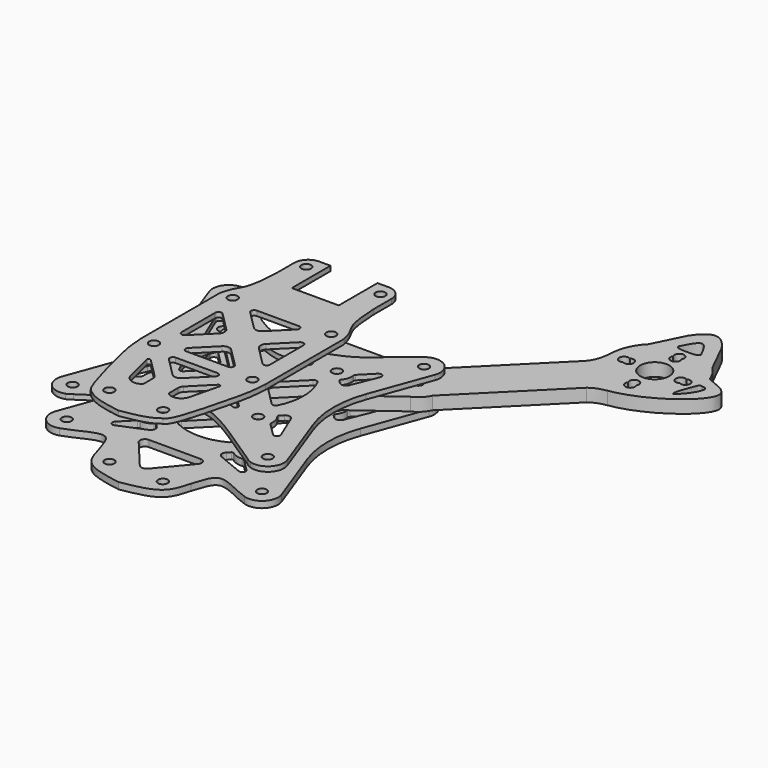
from build123d import *

# Parameters (mm, degrees)
F0_R     = 1.5
F2_DEPTH = 2
F4_START = 3
F1_R     = 1.5
F1_R_2   = 4.5
F4_DEPTH = 4
F7_START = 20
F6_R     = 1.5
F7_DEPTH = 1.5
F8_START = 9
F5_R     = 1.5
F8_DEPTH = 1.5


with BuildPart() as f2:
    # F0 (on Top) → F2 (new body)
    with BuildSketch(Plane.XY):
        with BuildLine():
            add(Edge.make_bspline(
                [(-28.6583371689, 34.989895508), (-15.5486081514, 28.1029236725), (-15.2531134537, 20.3288752095), (-15.0275822655, 35.7869570093)],
                knots=[0, 0, 0, 0, 13.3992828802, 13.3992828802, 13.3992828802, 13.3992828802], degree=3))
            ThreePointArc((-28.6583371689, 34.989895508), (-33.8221162144, 33.7485690999), (-34.9557615497, 28.560086322))
            Line((-34.9557615497, 28.560086322), (-28.2756954338, 10.3133747837))
            ThreePointArc((-28.2756954338, 10.3133747837), (-26.4471685044, -7.1088e-06), (-28.2756201348, -10.3134023513))
            Line((-28.2756201348, -10.3134023513), (-34.9643155344, -28.58409813))
            ThreePointArc((-34.9643155344, -28.58409813), (-33.8042341838, -33.7667341911), (-28.6341939914, -34.9817196608))
            add(Edge.make_bspline(
                [(-28.6341939914, -34.9817196608), (-24.495487875, -33.6930387827), (-16.3607874703, -27.7449542077), (-15.1366587225, -35.7631260416), (-14.33, -37.7577804035)],
                knots=[0, 0, 0, 0, 0.5615113554, 1, 1, 1, 1], degree=3))
            add(Edge.make_bspline(
                [(-14.33, -37.7577804035), (-13.6367446794, -40.3263257967), (-12.088150953, -46.0639424644), (-4.3010614265, -47.3817279873), (0, -48.1095835567)],
                knots=[0, 0, 0, 0, 0.447667654, 1, 1, 1, 1], degree=3))
            add(Edge.make_bspline(
                [(14.33, -37.7577804035), (13.6367446794, -40.3263257967), (12.088150953, -46.0639424644), (4.3010614265, -47.3817279873), (0, -48.1095835567)],
                knots=[0, 0, 0, 0, 0.447667654, 1, 1, 1, 1], degree=3))
            add(Edge.make_bspline(
                [(28.6583371689, -34.9898955092), (24.5097770544, -33.6967999), (16.3601661117, -27.7422129401), (15.1363049951, -35.7630085829), (14.33, -37.7577804035)],
                knots=[0, 0, 0, 0, 0.561784833, 1, 1, 1, 1], degree=3))
            ThreePointArc((28.6583371689, -34.9898955092), (33.8221162144, -33.748569101), (34.9557615497, -28.5600863232))
            Line((34.9557615497, -28.5600863232), (28.2756954338, -10.3133747849))
            ThreePointArc((28.2756954338, -10.3133747849), (26.4471685044, 7.1077e-06), (28.2756201348, 10.3134023502))
            Line((28.2756201348, 10.3134023502), (34.9643155344, 28.5840981288))
            ThreePointArc((34.9643155344, 28.5840981288), (33.8042341838, 33.76673419), (28.6341939914, 34.9817196596))
            add(Edge.make_bspline(
                [(15.0274820378, 35.7867377887), (15.2513136358, 20.3289797995), (15.5248044507, 28.1031931102), (28.6341939914, 34.9817196596)],
                knots=[0.5359060708, 0.5359060708, 0.5359060708, 0.5359060708, 13.9139411757, 13.9139411757, 13.9139411757, 13.9139411757], degree=3))
            Line((15.0274820378, 35.7867377887), (15.0274820378, 39.0599891543))
            ThreePointArc((15.0274820378, 39.0599891543), (13.652463305, 42.1475201967), (10.437709575, 43.1910157204))
            Line((10.437709575, 43.1910157204), (0, 43.1910157204))
            Line((0, 43.1910157204), (-10.4377320476, 43.1910157204))
            ThreePointArc((-10.4377320476, 43.1910157204), (-13.6246402143, 42.125831168), (-15, 39.0599891543))
            Line((-15, 39.0599891543), (-15.0275822655, 35.7869570093))
        make_face()
        with Locations((-30.25, -30.2500000006)):
            Circle(F0_R, mode=Mode.SUBTRACT)
        with Locations((-8.2733329443, -41.1618490551)):
            Circle(F0_R, mode=Mode.SUBTRACT)
        with BuildLine():
            ThreePointArc((-23.8517090122, -20.3161751069), (-25.1141961389, -20.4406647854), (-25.4828700073, -19.2268068843))
            Line((-25.4828700073, -19.2268068843), (-22.1833207357, -11.2506887671))
            ThreePointArc((-22.1833207357, -11.2506887671), (-21.0902108457, -10.3529698728), (-19.736579243, -10.7634207575))
            Line((-19.736579243, -10.7634207575), (-18.8553009264, -11.6446990741))
            ThreePointArc((-18.8553009264, -11.6446990741), (-18.7090370991, -11.9847340093), (-18.8367068235, -12.33217797))
            Line((-18.8367068235, -12.33217797), (-18.8542943682, -12.3517786311))
            ThreePointArc((-18.8542943682, -12.3517786311), (-19.6877326512, -13.9472514003), (-19.8489637612, -15.7400584892))
            Line((-19.8489637612, -15.7400584892), (-19.8303976916, -15.8549305034))
            ThreePointArc((-19.8303976916, -15.8549305034), (-19.8571321349, -16.2052315209), (-20.0404595752, -16.5049256699))
            Line((-20.0404595752, -16.5049256699), (-23.8517090122, -20.3161751069))
        make_face(mode=Mode.SUBTRACT)
        with BuildLine():
            Line((-11.2506887665, -22.1833207364), (-19.2268068836, -25.482870008))
            ThreePointArc((-19.2268068836, -25.482870008), (-20.4406647847, -25.1141961396), (-20.3161751062, -23.8517090128))
            Line((-20.3161751062, -23.8517090128), (-16.5049256693, -20.0404595759))
            ThreePointArc((-16.5049256693, -20.0404595759), (-16.2052315202, -19.8571321356), (-15.8549305027, -19.8303976923))
            Line((-15.8549305027, -19.8303976923), (-15.7400584885, -19.8489637619))
            ThreePointArc((-15.7400584885, -19.8489637619), (-13.9472513996, -19.6877326519), (-12.3517786304, -18.8542943689))
            Line((-12.3517786304, -18.8542943689), (-12.3321779693, -18.8367068242))
            ThreePointArc((-12.3321779693, -18.8367068242), (-11.9847340086, -18.7090370997), (-11.6446990734, -18.8553009271))
            Line((-11.6446990734, -18.8553009271), (-10.7634207569, -19.7365792436))
            ThreePointArc((-10.7634207569, -19.7365792436), (-10.3529698721, -21.0902108464), (-11.2506887665, -22.1833207364))
        make_face(mode=Mode.SUBTRACT)
        with Locations((-15.25, -15.2500000006)):
            Circle(F0_R, mode=Mode.SUBTRACT)
        with BuildLine():
            ThreePointArc((-7.7892382513, -15.2383616248), (-8.2896410828, -14.5053634666), (-8.0071487762, -13.6640030263))
            Line((-8.0071487762, -13.6640030263), (-1.4142135624, -7.0710678125))
            ThreePointArc((-1.4142135624, -7.0710678125), (0, -6.4852813748), (1.4142135624, -7.0710678125))
            Line((1.4142135624, -7.0710678125), (8.0039929944, -13.6608472445))
            ThreePointArc((8.0039929944, -13.6608472445), (8.287442711, -14.5050591849), (7.7853439372, -15.2405415869))
            Line((7.7853439372, -15.2405415869), (7.7684472975, -15.2500000006))
            ThreePointArc((7.7684472975, -15.2500000006), (0, -17.1146508417), (-7.7684472975, -15.2500000006))
            Line((-7.7684472975, -15.2500000006), (-7.7892382513, -15.2383616248))
        make_face(mode=Mode.SUBTRACT)
        with Locations((8.2733329443, -41.1618490551)):
            Circle(F0_R, mode=Mode.SUBTRACT)
        with BuildLine():
            Line((-1.3419338656, -38.0910861377), (-9.1892168108, -28.7161126104))
            ThreePointArc((-9.1892168108, -28.7161126104), (-9.3980668278, -27.118570832), (-8.0389877832, -26.2533181443))
            Line((-8.0389877832, -26.2533181443), (8.0389877833, -26.2533181443))
            ThreePointArc((8.0389877833, -26.2533181443), (9.398066828, -27.118570832), (9.189216811, -28.7161126104))
            Line((9.189216811, -28.7161126104), (1.3419338656, -38.0910861377))
            ThreePointArc((1.3419338656, -38.0910861377), (0, -38.7178259272), (-1.3419338656, -38.0910861377))
        make_face(mode=Mode.SUBTRACT)
        with Locations((30.25, -30.2500000006)):
            Circle(F0_R, mode=Mode.SUBTRACT)
        with BuildLine():
            ThreePointArc((20.3161751064, -23.8517090128), (20.4406647849, -25.1141961396), (19.2268068838, -25.482870008))
            Line((19.2268068838, -25.482870008), (11.2506887667, -22.1833207364))
            ThreePointArc((11.2506887667, -22.1833207364), (10.3529698723, -21.0902108464), (10.7634207571, -19.7365792436))
            Line((10.7634207571, -19.7365792436), (11.6446990736, -18.8553009271))
            ThreePointArc((11.6446990736, -18.8553009271), (11.9847340088, -18.7090370997), (12.3321779695, -18.8367068242))
            Line((12.3321779695, -18.8367068242), (12.3517786306, -18.8542943689))
            ThreePointArc((12.3517786306, -18.8542943689), (13.9472513998, -19.6877326519), (15.7400584887, -19.8489637619))
            Line((15.7400584887, -19.8489637619), (15.8549305029, -19.8303976923))
            ThreePointArc((15.8549305029, -19.8303976923), (16.2052315204, -19.8571321356), (16.5049256694, -20.0404595759))
            Line((16.5049256694, -20.0404595759), (20.3161751064, -23.8517090128))
        make_face(mode=Mode.SUBTRACT)
        with Locations((15.25, -15.2500000006)):
            Circle(F0_R, mode=Mode.SUBTRACT)
        with BuildLine():
            ThreePointArc((19.7365792431, -10.7634207575), (21.0902108459, -10.3529698728), (22.1833207359, -11.2506887671))
            Line((22.1833207359, -11.2506887671), (25.4828700075, -19.2268068842))
            ThreePointArc((25.4828700075, -19.2268068842), (25.1141961391, -20.4406647853), (23.8517090123, -20.3161751069))
            Line((23.8517090123, -20.3161751069), (20.0404595754, -16.5049256699))
            ThreePointArc((20.0404595754, -16.5049256699), (19.8571321351, -16.2052315209), (19.8303976918, -15.8549305033))
            Line((19.8303976918, -15.8549305033), (19.8489637614, -15.7400584892))
            ThreePointArc((19.8489637614, -15.7400584892), (19.6877326514, -13.9472514003), (18.8542943684, -12.3517786311))
            Line((18.8542943684, -12.3517786311), (18.8367068237, -12.33217797))
            ThreePointArc((18.8367068237, -12.33217797), (18.7090370992, -11.9847340093), (18.8553009266, -11.6446990741))
            Line((18.8553009266, -11.6446990741), (19.7365792431, -10.7634207575))
        make_face(mode=Mode.SUBTRACT)
        with BuildLine():
            ThreePointArc((-18.8367068237, 12.3321779688), (-18.7090370992, 11.9847340081), (-18.8553009266, 11.6446990729))
            Line((-18.8553009266, 11.6446990729), (-19.7365318181, 10.7634681813))
            ThreePointArc((-19.7365318181, 10.7634681813), (-21.0901735727, 10.3530193183), (-22.1832812244, 11.250755321))
            Line((-22.1832812244, 11.250755321), (-25.4825410679, 19.2264854211))
            ThreePointArc((-25.4825410679, 19.2264854211), (-25.1138561851, 20.4403344014), (-23.851374797, 20.3158408904))
            Line((-23.851374797, 20.3158408904), (-20.0404595754, 16.5049256687))
            ThreePointArc((-20.0404595754, 16.5049256687), (-19.8571321351, 16.2052315197), (-19.8303976918, 15.8549305022))
            Line((-19.8303976918, 15.8549305022), (-19.8489637614, 15.740058488))
            ThreePointArc((-19.8489637614, 15.740058488), (-19.6877326514, 13.9472513991), (-18.8542943684, 12.3517786299))
            Line((-18.8542943684, 12.3517786299), (-18.8367068237, 12.3321779688))
        make_face(mode=Mode.SUBTRACT)
        with BuildLine():
            ThreePointArc((-13.6608472446, -8.003992994), (-14.505059185, -8.2874427105), (-15.2405415869, -7.7853439367))
            Line((-15.2405415869, -7.7853439367), (-15.25, -7.7684472983))
            ThreePointArc((-15.25, -7.7684472983), (-17.1146508411, -6e-10), (-15.25, 7.7684472971))
            Line((-15.25, 7.7684472971), (-15.2405415859, 7.7853439372))
            ThreePointArc((-15.2405415859, 7.7853439372), (-14.505059184, 8.2874427111), (-13.6608472436, 8.0039929945))
            Line((-13.6608472436, 8.0039929945), (-7.0710678122, 1.4142135631))
            ThreePointArc((-7.0710678122, 1.4142135631), (-6.4852813746, 7e-10), (-7.0710678122, -1.4142135616))
            Line((-7.0710678122, -1.4142135616), (-13.6608472446, -8.003992994))
        make_face(mode=Mode.SUBTRACT)
        with Locations((-15.25, 15.2499999994)):
            Circle(F0_R, mode=Mode.SUBTRACT)
        with BuildLine():
            ThreePointArc((7.7853439372, 15.2405415857), (8.287442711, 14.5050591838), (8.0039929944, 13.6608472433))
            Line((8.0039929944, 13.6608472433), (1.4142135624, 7.0710678113))
            ThreePointArc((1.4142135624, 7.0710678113), (0, 6.4852813737), (-1.4142135624, 7.0710678113))
            Line((-1.4142135624, 7.0710678113), (-8.0039929944, 13.6608472433))
            ThreePointArc((-8.0039929944, 13.6608472433), (-8.287442711, 14.5050591838), (-7.7853439372, 15.2405415857))
            Line((-7.7853439372, 15.2405415857), (-7.7684472975, 15.2499999994))
            ThreePointArc((-7.7684472975, 15.2499999994), (0, 17.1146508406), (7.7684472975, 15.2499999994))
            Line((7.7684472975, 15.2499999994), (7.7853439372, 15.2405415857))
        make_face(mode=Mode.SUBTRACT)
        with Locations((-30.25, 30.2499999994)):
            Circle(F0_R, mode=Mode.SUBTRACT)
        with BuildLine():
            ThreePointArc((-7.7684472975, 20.1190513336), (-9.4080907996, 20.7386520685), (-8.9382902045, 22.4273270773))
            Line((-8.9382902045, 22.4273270773), (-1.06072927, 27.355528746))
            ThreePointArc((-1.06072927, 27.355528746), (0, 27.6599894761), (1.0607292699, 27.355528746))
            Line((1.0607292699, 27.355528746), (8.9382902045, 22.4273270773))
            ThreePointArc((8.9382902045, 22.4273270773), (9.4121452662, 20.7467816187), (7.7853439372, 20.1125189809))
            ThreePointArc((7.7853439372, 20.1125189809), (0.0090577048, 21.5667549236), (-7.7684472975, 20.1190513336))
        make_face(mode=Mode.SUBTRACT)
        with Locations((-11.5, 39.0599891543)):
            Circle(F0_R, mode=Mode.SUBTRACT)
        with BuildLine():
            Line((7.0710678124, 1.4142135624), (13.6608472439, 8.0039929938))
            ThreePointArc((13.6608472439, 8.0039929938), (14.5050591843, 8.2874427104), (15.2405415863, 7.7853439366))
            Line((15.2405415863, 7.7853439366), (15.25, 7.7684472971))
            ThreePointArc((15.25, 7.7684472971), (17.1146508411, -6e-10), (15.25, -7.7684472983))
            Line((15.25, -7.7684472983), (15.2405415867, -7.7853439371))
            ThreePointArc((15.2405415867, -7.7853439371), (14.5050591848, -8.2874427109), (13.6608472444, -8.0039929943))
            Line((13.6608472444, -8.0039929943), (7.0710678124, -1.4142135624))
            ThreePointArc((7.0710678124, -1.4142135624), (6.4852813748, 0), (7.0710678124, 1.4142135624))
        make_face(mode=Mode.SUBTRACT)
        with Locations((15.25, 15.2499999994)):
            Circle(F0_R, mode=Mode.SUBTRACT)
        with BuildLine():
            Line((19.8247048971, 15.785759925), (19.8053184489, 15.9004963368))
            ThreePointArc((19.8053184489, 15.9004963368), (19.8295490283, 16.2509794496), (20.0107302331, 16.5519759685))
            Line((20.0107302331, 16.5519759685), (23.8084562188, 20.4043695836))
            ThreePointArc((23.8084562188, 20.4043695836), (25.0693920791, 20.5382911332), (25.4479247727, 19.3280815542))
            Line((25.4479247727, 19.3280815542), (22.2099579078, 11.3050038785))
            ThreePointArc((22.2099579078, 11.3050038785), (21.1235499455, 10.3976310998), (19.7659136105, 10.7981697397))
            Line((19.7659136105, 10.7981697397), (18.8636878016, 11.6875924575))
            ThreePointArc((18.8636878016, 11.6875924575), (18.7150078324, 12.0262851571), (18.8397994936, 12.37448843))
            Line((18.8397994936, 12.37448843), (18.8575858105, 12.3946446988))
            ThreePointArc((18.8575858105, 12.3946446988), (19.6770217108, 13.9944130467), (19.8247048971, 15.785759925))
        make_face(mode=Mode.SUBTRACT)
        with Locations((11.5, 39.0599891543)):
            Circle(F0_R, mode=Mode.SUBTRACT)
        with Locations((30.25, 30.2499999994)):
            Circle(F0_R, mode=Mode.SUBTRACT)
    extrude(amount=F2_DEPTH)


with BuildPart() as f4:
    # F1 (on Top) → F4 (new body)
    with BuildSketch(Plane.XY.offset(F4_START)):
        with BuildLine():
            add(Edge.make_bspline(
                [(53.8403756487, 63.7304752458), (55.416769934, 65.2037108877), (56.4797969246, 66.7322054505), (56.9693953395, 70.96)],
                knots=[0, 0, 0, 0, 7.8776133694, 7.8776133694, 7.8776133694, 7.8776133694], degree=3))
            Line((53.8403756487, 63.7304752458), (27.2135911477, 37.1036907448))
            ThreePointArc((27.2135911477, 37.1036907448), (24.9560944806, 35.5533008589), (23.4057045947, 33.2958041918))
            Line((23.4057045947, 33.2958041918), (13.6185183249, 19.9730840161))
            ThreePointArc((13.6185183249, 19.9730840161), (11.3998018999, 18.428606374), (10.3093393921, 15.9549440526))
            Line((10.3093393921, 15.9549440526), (6.3693953395, 12.015))
            Line((6.3693953395, 12.015), (0.0093953395, 5.655))
            Line((0.0093953395, 5.655), (0.0093953395, 0))
            Line((0.0093953395, 0), (5.6643953395, 0))
            Line((5.6643953395, 0), (12.0243953395, 6.36))
            Line((12.0243953395, 6.36), (15.964339392, 10.2999440526))
            ThreePointArc((15.964339392, 10.2999440526), (18.4380017135, 11.3904065604), (19.9824793556, 13.6091229854))
            Line((19.9824793556, 13.6091229854), (33.3051995313, 23.3963092552))
            ThreePointArc((33.3051995313, 23.3963092552), (35.5626961984, 24.9466991411), (37.1130860843, 27.2041958082))
            Line((37.1130860843, 27.2041958082), (63.6551645076, 53.7462742315))
            add(Edge.make_bspline(
                [(63.6551645076, 53.7462742315), (65.3627067804, 54.9906902015), (66.7258799076, 55.3231723607), (68.4891356677, 55.6597283697)],
                knots=[0, 0, 0, 0, 5.1989021836, 5.1989021836, 5.1989021836, 5.1989021836], degree=3))
            add(Edge.make_bspline(
                [(84.0894447875, 75.8451102834), (87.0090253606, 74.6406662064), (97.809192454, 71.4575524374), (79.1750401258, 57.3118105531), (68.4891356677, 55.6597283697)],
                knots=[0, 0, 0, 0, 0.3577567319, 1, 1, 1, 1], degree=3))
            ThreePointArc((84.0894447875, 75.8451102834), (82.7490756952, 78.5256546787), (80.8688902761, 80.8594949366))
            Line((80.8688902761, 80.8594949366), (76.2193953395, 90.2586398484))
            add(Edge.make_bspline(
                [(65.7193953395, 90.2586398484), (67.2193953395, 92.6020138718), (70.9693953395, 96.3179861282), (74.7193953395, 92.6020138718), (76.2193953395, 90.2586398484)],
                knots=[0, 0, 0, 0, 0.5, 1, 1, 1, 1], degree=3))
            Line((65.7193953395, 90.2586398484), (61.0699004029, 80.8594949366))
            ThreePointArc((61.0699004029, 80.8594949366), (58.0350818843, 76.3175680531), (56.9693953395, 70.96))
        make_face()
        with Locations((15.2593953395, 15.25)):
            Circle(F1_R, mode=Mode.SUBTRACT)
        with Locations((30.2593953395, 30.25)):
            Circle(F1_R, mode=Mode.SUBTRACT)
        with BuildLine():
            ThreePointArc((72.2684334452, 62.21), (70.9693953395, 59.96), (69.6703572338, 62.21))
            ThreePointArc((69.6703572338, 62.21), (70.9693953395, 64.46), (72.2684334452, 62.21))
        make_face(mode=Mode.SUBTRACT)
        with BuildLine():
            ThreePointArc((62.2193953395, 72.2590381057), (64.4693953395, 70.96), (62.2193953395, 69.6609618943))
            ThreePointArc((62.2193953395, 69.6609618943), (59.9693953395, 70.96), (62.2193953395, 72.2590381057))
        make_face(mode=Mode.SUBTRACT)
        with Locations((70.9693953395, 70.96)):
            Circle(F1_R_2, mode=Mode.SUBTRACT)
        with BuildLine():
            add(Edge.make_bspline(
                [(82.4060514569, 64.5534098148), (80.7914603636, 63.0556593791), (83.9801204568, 71.8950702465), (84.2074600213, 71.8239934193), (84.9451732404, 71.783184101)],
                knots=[0, 0, 0, 0, 0.6805312174, 1, 1, 1, 1], degree=3))
            add(Edge.make_bspline(
                [(84.9451732404, 71.783184101), (85.7962933376, 71.6849426877), (87.6041236849, 71.2964912458), (84.6678863419, 66.376809069), (82.4060514569, 64.5534098148)],
                knots=[0, 0, 0, 0, 0.32334118, 1, 1, 1, 1], degree=3))
        make_face(mode=Mode.SUBTRACT)
        with BuildLine():
            ThreePointArc((79.7193953395, 69.6609618943), (77.4693953395, 70.96), (79.7193953395, 72.2590381057))
            ThreePointArc((79.7193953395, 72.2590381057), (81.9693953395, 70.96), (79.7193953395, 69.6609618943))
        make_face(mode=Mode.SUBTRACT)
        with BuildLine():
            ThreePointArc((72.2684334452, 79.71), (70.9693953395, 77.46), (69.6703572338, 79.71))
            ThreePointArc((69.6703572338, 79.71), (70.9693953395, 81.96), (72.2684334452, 79.71))
        make_face(mode=Mode.SUBTRACT)
        with BuildLine():
            add(Edge.make_bspline(
                [(67.4763052703, 84.5172239698), (67.595660109, 83.524372308), (70.9693953395, 83.524372308), (74.34313057, 83.524372308), (74.4624854087, 84.5172239698)],
                knots=[0, 0, 0, 0, 0.5, 1, 1, 1, 1], degree=3))
            add(Edge.make_bspline(
                [(67.4763052703, 84.5172239698), (68.6406686267, 86.8665499989), (70.9693953395, 91.5652020569), (73.2981220523, 86.8665499989), (74.4624854087, 84.5172239698)],
                knots=[0, 0, 0, 0, 0.5, 1, 1, 1, 1], degree=3))
        make_face(mode=Mode.SUBTRACT)
    extrude(amount=F4_DEPTH)


with BuildPart() as f7:
    # F6 (on Top) → F7 (new body)
    with BuildSketch(Plane.XY.offset(F7_START)):
        with BuildLine():
            add(Edge.make_bspline(
                [(-19.25, -15.2218541075), (-19.0684905374, -19.7268529833), (-17.9623264747, -24.6907042809), (-13.2785718821, -43.084666195), (-11.6053951728, -44.1968771124), (-11.0003547743, -44.5749795424)],
                knots=[0, 0, 0, 0, 0.3683029461, 0.8298524693, 1, 1, 1, 1], degree=3))
            add(Edge.make_bspline(
                [(-11.0003547743, -44.5749795424), (-7.8986920416, -46.9837644324), (-3.9995196275, -47.3454079802), (0, -48.1093942399)],
                knots=[0, 0, 0, 0, 11.5542153526, 11.5542153526, 11.5542153526, 11.5542153526], degree=3))
            add(Edge.make_bspline(
                [(11.0003547743, -44.5749795424), (7.8986920416, -46.9837644324), (3.9995196275, -47.3454079802), (0, -48.1093942399)],
                knots=[0, 0, 0, 0, 11.5542153526, 11.5542153526, 11.5542153526, 11.5542153526], degree=3))
            add(Edge.make_bspline(
                [(19.25, -15.2218541075), (19.0667337669, -19.7267716154), (17.9562925595, -24.6902276301), (13.2790290127, -43.0847539077), (11.6055152346, -44.1969091306), (11.0003547743, -44.5749795424)],
                knots=[0, 0, 0, 0, 0.368314136, 0.829851714, 1, 1, 1, 1], degree=3))
            Line((19.25, -15.2218541075), (19.25, 15.2781458925))
            add(Edge.make_bspline(
                [(15.0790967662, 31.8597836794), (15.7273210805, 18.4148469189), (17.670676786, 22.4575338068), (19.25, 15.2781458925)],
                knots=[0.8128411452, 0.8128411452, 0.8128411452, 0.8128411452, 18.97635654, 18.97635654, 18.97635654, 18.97635654], degree=3))
            Line((15.0790967662, 31.8597836794), (15.0790967662, 38.8910157204))
            ThreePointArc((15.0790967662, 38.8910157204), (13.8196559253, 41.9315748795), (10.7790967662, 43.1910157204))
            Line((10.7790967662, 43.1910157204), (7.2790967662, 43.1910157204))
            Line((7.2790967662, 43.1910157204), (7.2790967662, 28.1910157204))
            Line((7.2790967662, 28.1910157204), (-7.2790967662, 28.1910157204))
            Line((-7.2790967662, 28.1910157204), (-7.2790967662, 43.1910157204))
            Line((-7.2790967662, 43.1910157204), (-10.7790967662, 43.1910157204))
            ThreePointArc((-10.7790967662, 43.1910157204), (-13.8196559253, 41.9315748795), (-15.0790967662, 38.8910157204))
            Line((-15.0790967662, 38.8910157204), (-15.0790967662, 31.8597836794))
            add(Edge.make_bspline(
                [(-15.0790967662, 31.8597836794), (-15.7273210805, 18.4148469189), (-17.670676786, 22.4575338068), (-19.25, 15.2781458925)],
                knots=[0.8128411452, 0.8128411452, 0.8128411452, 0.8128411452, 18.97635654, 18.97635654, 18.97635654, 18.97635654], degree=3))
            Line((-19.25, 15.2781458925), (-19.25, -15.2218541075))
        make_face()
        with Locations((-8.3293477558, -41.1257331912)):
            Circle(F6_R, mode=Mode.SUBTRACT)
        with BuildLine():
            ThreePointArc((-11.2741795299, -22.9536277928), (-11.0338873267, -22.3989447209), (-10.4349964383, -22.4810626653))
            Line((-10.4349964383, -22.4810626653), (-4.5076118446, -28.408447259))
            ThreePointArc((-4.5076118446, -28.408447259), (-4.0740663419, -29.0572939567), (-3.9218254069, -29.8226608214))
            Line((-3.9218254069, -29.8226608214), (-3.9218254069, -32.9968597055))
            ThreePointArc((-3.9218254069, -32.9968597055), (-4.0264596985, -33.4421913215), (-4.3184659033, -33.7943290211))
            Line((-4.3184659033, -33.7943290211), (-4.4003069963, -33.8562493989))
            ThreePointArc((-4.4003069963, -33.8562493989), (-7.223873087, -34.0855754205), (-9.0722171951, -31.9387778169))
            Line((-9.0722171951, -31.9387778169), (-11.2741795299, -22.9536277928))
        make_face(mode=Mode.SUBTRACT)
        with Locations((-15.25, -15.2218541075)):
            Circle(F6_R, mode=Mode.SUBTRACT)
        with Locations((8.3288047093, -41.1259644251)):
            Circle(F6_R, mode=Mode.SUBTRACT)
        with BuildLine():
            Line((4.5076118446, -28.408447259), (10.4349123369, -22.4811467667))
            ThreePointArc((10.4349123369, -22.4811467667), (11.0338107336, -22.3990330505), (11.2740913261, -22.9537286326))
            Line((11.2740913261, -22.9537286326), (9.0718254069, -31.9387778169))
            ThreePointArc((9.0718254069, -31.9387778169), (7.2237469097, -34.0856955052), (4.4002690575, -33.8562995378))
            Line((4.4002690575, -33.8562995378), (4.3183823385, -33.7943311455))
            ThreePointArc((4.3183823385, -33.7943311455), (4.0264363662, -33.4422097633), (3.9218254069, -32.9969250614))
            Line((3.9218254069, -32.9969250614), (3.9218254069, -29.8226608214))
            ThreePointArc((3.9218254069, -29.8226608214), (4.0740663419, -29.0572939567), (4.5076118446, -28.408447259))
        make_face(mode=Mode.SUBTRACT)
        with BuildLine():
            Line((-1.4142135624, -25.3091152098), (-7.2178932188, -19.5054355534))
            ThreePointArc((-7.2178932188, -19.5054355534), (-7.4346659701, -18.4156453398), (-6.5107864376, -17.7983287722))
            Line((-6.5107864376, -17.7983287722), (6.5107864376, -17.7983287722))
            ThreePointArc((6.5107864376, -17.7983287722), (7.4346659701, -18.4156453398), (7.2178932188, -19.5054355534))
            Line((7.2178932188, -19.5054355534), (1.4142135624, -25.3091152098))
            ThreePointArc((1.4142135624, -25.3091152098), (0, -25.8949016474), (-1.4142135624, -25.3091152098))
        make_face(mode=Mode.SUBTRACT)
        with BuildLine():
            ThreePointArc((-1.4142135624, -6.1360676699), (0, -5.5502812323), (1.4142135624, -6.1360676699))
            Line((1.4142135624, -6.1360676699), (7.2178932188, -11.9397473263))
            ThreePointArc((7.2178932188, -11.9397473263), (7.4346659701, -13.0295375399), (6.5107864376, -13.6468541075))
            Line((6.5107864376, -13.6468541075), (-6.5107864376, -13.6468541075))
            ThreePointArc((-6.5107864376, -13.6468541075), (-7.4346659701, -13.0295375399), (-7.2178932188, -11.9397473263))
            Line((-7.2178932188, -11.9397473263), (-1.4142135624, -6.1360676699))
        make_face(mode=Mode.SUBTRACT)
        with Locations((15.25, -15.2218541075)):
            Circle(F6_R, mode=Mode.SUBTRACT)
        with BuildLine():
            Line((-11.9678932188, 7.2460391113), (-6.1642135624, 1.4423594549))
            ThreePointArc((-6.1642135624, 1.4423594549), (-5.5784271247, 0.0281458925), (-6.1642135624, -1.3860676699))
            Line((-6.1642135624, -1.3860676699), (-11.9678932188, -7.1897473263))
            ThreePointArc((-11.9678932188, -7.1897473263), (-13.0576834324, -7.4065200777), (-13.675, -6.4826405451))
            Line((-13.675, -6.4826405451), (-13.675, 6.5389323301))
            ThreePointArc((-13.675, 6.5389323301), (-13.0576834324, 7.4628118626), (-11.9678932188, 7.2460391113))
        make_face(mode=Mode.SUBTRACT)
        with Locations((-15.25, 15.2781458925)):
            Circle(F6_R, mode=Mode.SUBTRACT)
        with Locations((-11.5, 39.0599891543)):
            Circle(F6_R, mode=Mode.SUBTRACT)
        with BuildLine():
            ThreePointArc((1.4142135624, 6.1923594549), (0, 5.6065730172), (-1.4142135624, 6.1923594549))
            Line((-1.4142135624, 6.1923594549), (-7.2178932188, 11.9960391113))
            ThreePointArc((-7.2178932188, 11.9960391113), (-7.4346659701, 13.0858293249), (-6.5107864376, 13.7031458925))
            Line((-6.5107864376, 13.7031458925), (6.5107864376, 13.7031458925))
            ThreePointArc((6.5107864376, 13.7031458925), (7.4346659701, 13.0858293249), (7.2178932188, 11.9960391113))
            Line((7.2178932188, 11.9960391113), (1.4142135624, 6.1923594549))
        make_face(mode=Mode.SUBTRACT)
        with BuildLine():
            Line((11.9678932188, -7.1897473263), (6.1642135624, -1.3860676699))
            ThreePointArc((6.1642135624, -1.3860676699), (5.5784271247, 0.0281458925), (6.1642135624, 1.4423594549))
            Line((6.1642135624, 1.4423594549), (11.9678932188, 7.2460391113))
            ThreePointArc((11.9678932188, 7.2460391113), (13.0576834324, 7.4628118626), (13.675, 6.5389323301))
            Line((13.675, 6.5389323301), (13.675, -6.4826405451))
            ThreePointArc((13.675, -6.4826405451), (13.0576834324, -7.4065200777), (11.9678932188, -7.1897473263))
        make_face(mode=Mode.SUBTRACT)
        with Locations((15.25, 15.2781458925)):
            Circle(F6_R, mode=Mode.SUBTRACT)
        with Locations((11.5, 39.0599891543)):
            Circle(F6_R, mode=Mode.SUBTRACT)
    extrude(amount=F7_DEPTH)


with BuildPart() as f8:
    # F5 (on Top) → F8 (new body)
    with BuildSketch(Plane.XY.offset(F8_START)):
        with BuildLine():
            ThreePointArc((-26.9407032856, 36.2600348998), (-27.7551557637, 36.8489935616), (-28.6709446924, 37.2631623465))
            ThreePointArc((-28.6709446924, 37.2631623465), (-33.8348197995, 36.0222356117), (-34.9688667131, 30.8338405921))
            Line((-34.9688667131, 30.8338405921), (-28.2886697962, 12.5867673035))
            ThreePointArc((-28.2886697962, 12.5867673035), (-26.4601436815, 2.2733832229), (-28.2885975317, -8.0400136697))
            Line((-28.2885975317, -8.0400136697), (-34.9770950156, -26.3101566446))
            ThreePointArc((-34.9770950156, -26.3101566446), (-33.8176199057, -31.4929283694), (-28.6477218702, -32.7085185901))
            ThreePointArc((-28.6477218702, -32.7085185901), (-27.7339748711, -32.2898641192), (-26.9224202046, -31.6969187864))
            Line((-26.9224202046, -31.6969187864), (-15.2629743804, -23.98008234))
            add(Edge.make_bspline(
                [(-15.2629743804, -23.98008234), (-10.179641047, -20.7141435083), (-0.0129743803, -14.1822658449), (10.1536922863, -20.7141435083), (15.2370256196, -23.98008234)],
                knots=[0, 0, 0, 0, 0.5, 1, 1, 1, 1], degree=3))
            Line((15.2370256196, -23.98008234), (26.9147545249, -31.7132548104))
            ThreePointArc((26.9147545249, -31.7132548104), (27.7292070029, -32.3022134723), (28.6449959317, -32.7163822571))
            ThreePointArc((28.6449959317, -32.7163822571), (33.8088710387, -31.4754555224), (34.9429179524, -26.2870605027))
            Line((34.9429179524, -26.2870605027), (28.2627210354, -8.0399872141))
            ThreePointArc((28.2627210354, -8.0399872141), (26.4341949208, 2.2733968665), (28.2626487709, 12.586793759))
            Line((28.2626487709, 12.586793759), (34.9511462548, 30.8569367339))
            ThreePointArc((34.9511462548, 30.8569367339), (33.7916711449, 36.0397084588), (28.6217731094, 37.2552986795))
            ThreePointArc((28.6217731094, 37.2552986795), (27.7080261104, 36.8366442085), (26.8964714439, 36.2436988758))
            Line((26.8964714439, 36.2436988758), (15.2212491446, 26.7733900447))
            add(Edge.make_bspline(
                [(-15.2787508554, 26.7733900447), (-10.8797858751, 23.8265282552), (-0.0532688862, 20.1720392091), (10.8797858751, 23.8112762216), (15.2212491446, 26.7733900447)],
                knots=[0, 0, 0, 0, 0.5000467941, 1, 1, 1, 1], degree=3))
            Line((-15.2787508554, 26.7733900447), (-26.9407032856, 36.2600348998))
        make_face()
        with Locations((-30.2629743804, -27.9766099553)):
            Circle(F5_R, mode=Mode.SUBTRACT)
        with BuildLine():
            ThreePointArc((-23.8489069176, -18.0427905908), (-25.1113940444, -18.1672802692), (-25.4800679128, -16.9534223681))
            Line((-25.4800679128, -16.9534223681), (-22.1805186412, -8.977304251))
            ThreePointArc((-22.1805186412, -8.977304251), (-21.0874087512, -8.0795853567), (-19.7337771484, -8.4900362414))
            Line((-19.7337771484, -8.4900362414), (-18.8524988319, -9.3713145579))
            ThreePointArc((-18.8524988319, -9.3713145579), (-18.7062350045, -9.7113494932), (-18.833904729, -10.0587934538))
            Line((-18.833904729, -10.0587934538), (-18.8514922737, -10.0783941149))
            ThreePointArc((-18.8514922737, -10.0783941149), (-19.6849305567, -11.6738668841), (-19.8461616667, -13.466673973))
            Line((-19.8461616667, -13.466673973), (-19.8275955971, -13.5815459872))
            ThreePointArc((-19.8275955971, -13.5815459872), (-19.8543300404, -13.9318470047), (-20.0376574807, -14.2315411538))
            Line((-20.0376574807, -14.2315411538), (-23.8489069176, -18.0427905908))
        make_face(mode=Mode.SUBTRACT)
        with Locations((-15.2471979054, -12.9766154845)):
            Circle(F5_R, mode=Mode.SUBTRACT)
        with BuildLine():
            ThreePointArc((-13.6600131315, -5.726668306), (-14.5041657047, -6.0102947774), (-15.2397532199, -5.5083500098))
            Line((-15.2397532199, -5.5083500098), (-15.2471979054, -5.4950572526))
            ThreePointArc((-15.2471979054, -5.4950572526), (-17.1135691016, 2.2733900447), (-15.2471979054, 10.041837342))
            Line((-15.2471979054, 10.041837342), (-15.24273859, 10.0498062874))
            ThreePointArc((-15.24273859, 10.0498062874), (-14.5073304159, 10.552013774), (-13.6630765854, 10.2686888511))
            Line((-13.6630765854, 10.2686888511), (-7.0780798423, 3.683692108))
            ThreePointArc((-7.0780798423, 3.683692108), (-6.4922934046, 2.2694785456), (-7.0780798423, 0.8552649832))
            Line((-7.0780798423, 0.8552649832), (-13.6600131315, -5.726668306))
        make_face(mode=Mode.SUBTRACT)
        with Locations((30.2370256196, -27.9766099553)):
            Circle(F5_R, mode=Mode.SUBTRACT)
        with BuildLine():
            ThreePointArc((-7.7816537569, -12.9591669623), (-8.2829493322, -12.2265343934), (-8.001034186, -11.3847674512))
            Line((-8.001034186, -11.3847674512), (-1.427727924, -4.8034136383))
            ThreePointArc((-1.427727924, -4.8034136383), (-0.0138729894, -4.2167621451), (1.4006986714, -4.801683308))
            Line((1.4006986714, -4.801683308), (7.9815684526, -11.37450613))
            ThreePointArc((7.9815684526, -11.37450613), (8.2654849902, -12.2193895506), (7.7626098224, -12.9552925065))
            Line((7.7626098224, -12.9552925065), (7.7244458087, -12.9766154845))
            add(Edge.make_bspline(
                [(-7.7503945694, -12.9766154845), (-5.1645959639, -11.9759777802), (0.0020637685, -9.9766130491), (5.1519589479, -11.9772519711), (7.7244458087, -12.9766154845)],
                knots=[0, 0, 0, 0, 0.5004778212, 1, 1, 1, 1], degree=3))
            Line((-7.7503945694, -12.9766154845), (-7.7816537569, -12.9591669623))
        make_face(mode=Mode.SUBTRACT)
        with Locations((15.2528020946, -12.9766154845)):
            Circle(F5_R, mode=Mode.SUBTRACT)
        with BuildLine():
            Line((7.0557704686, 3.6852806441), (13.6380885864, 10.267598762))
            ThreePointArc((13.6380885864, 10.267598762), (14.4819467408, 10.5509556529), (15.2171693716, 10.0491236138))
            Line((15.2171693716, 10.0491236138), (15.2212491446, 10.041837342))
            ThreePointArc((15.2212491446, 10.041837342), (17.0876203409, 2.2733900447), (15.2212491446, -5.4950572526))
            Line((15.2212491446, -5.4950572526), (15.2156406206, -5.5050714767))
            ThreePointArc((15.2156406206, -5.5050714767), (14.4802031371, -6.0069702904), (13.6361480691, -5.7235240811))
            Line((13.6361480691, -5.7235240811), (7.0557704686, 0.8568535194))
            ThreePointArc((7.0557704686, 0.8568535194), (6.4699840309, 2.2710670817), (7.0557704686, 3.6852806441))
        make_face(mode=Mode.SUBTRACT)
        with BuildLine():
            ThreePointArc((19.7370620173, -8.4877181194), (21.0904813131, -8.0765677155), (22.1840550096, -8.9737215569))
            Line((22.1840550096, -8.9737215569), (25.4877259998, -16.9481333598))
            ThreePointArc((25.4877259998, -16.9481333598), (25.1196795178, -18.1621816342), (23.8571282218, -18.0383444417))
            Line((23.8571282218, -18.0383444417), (20.0439095917, -14.2290652158))
            ThreePointArc((20.0439095917, -14.2290652158), (19.8604272901, -13.9294658528), (19.8335118104, -13.5791786987))
            Line((19.8335118104, -13.5791786987), (19.8520185102, -13.4642971047))
            ThreePointArc((19.8520185102, -13.4642971047), (19.6898608763, -11.6715735815), (18.855598144, -10.0765317569))
            Line((18.855598144, -10.0765317569), (18.8380004718, -10.0569401879))
            ThreePointArc((18.8380004718, -10.0569401879), (18.7101512009, -9.7095622549), (18.8562392743, -9.3694517741))
            Line((18.8562392743, -9.3694517741), (19.7370620173, -8.4877181194))
        make_face(mode=Mode.SUBTRACT)
        with BuildLine():
            ThreePointArc((-18.8639492325, 14.6037202772), (-18.7360999616, 14.2563423443), (-18.8821880351, 13.9162318635))
            Line((-18.8821880351, 13.9162318635), (-19.7625740111, 13.0349354275))
            ThreePointArc((-19.7625740111, 13.0349354275), (-21.1161701038, 12.6238201487), (-22.2097049426, 13.5212719362))
            Line((-22.2097049426, 13.5212719362), (-25.5088845668, 21.4902583872))
            ThreePointArc((-25.5088845668, 21.4902583872), (-25.1406462244, 22.7041513988), (-23.8781948293, 22.5802474216))
            Line((-23.8781948293, 22.5802474216), (-20.0698583524, 18.7758453052))
            ThreePointArc((-20.0698583524, 18.7758453052), (-19.8863760509, 18.4762459421), (-19.8594605711, 18.1259587881))
            Line((-19.8594605711, 18.1259587881), (-19.8779672709, 18.0110771941))
            ThreePointArc((-19.8779672709, 18.0110771941), (-19.715809637, 16.2183536709), (-18.8815469047, 14.6233118463))
            Line((-18.8815469047, 14.6233118463), (-18.8639492325, 14.6037202772))
        make_face(mode=Mode.SUBTRACT)
        with Locations((-15.2787508554, 17.5233955738)):
            Circle(F5_R, mode=Mode.SUBTRACT)
        with BuildLine():
            ThreePointArc((7.7605848203, 17.5032086885), (8.263364843, 16.7678034482), (7.9800046348, 15.9232233093))
            Line((7.9800046348, 15.9232233093), (1.3989162185, 9.342134893))
            ThreePointArc((1.3989162185, 9.342134893), (-0.0152973439, 8.7563484554), (-1.4295109063, 9.342134893))
            Line((-1.4295109063, 9.342134893), (-8.0086569305, 15.9212809173))
            ThreePointArc((-8.0086569305, 15.9212809173), (-8.2921069909, 16.7660596794), (-7.7892590642, 17.5016812234))
            Line((-7.7892590642, 17.5016812234), (-7.7503945694, 17.5233955738))
            add(Edge.make_bspline(
                [(-7.7503945694, 17.5233955738), (-5.1779077086, 16.5240320604), (-0.0280125293, 14.5233931385), (5.1386472032, 16.5227578695), (7.7244458087, 17.5233955738)],
                knots=[0, 0, 0, 0, 0.4995221788, 1, 1, 1, 1], degree=3))
            Line((7.7244458087, 17.5233955738), (7.7605848203, 17.5032086885))
        make_face(mode=Mode.SUBTRACT)
        with Locations((-30.2629743804, 32.5233900447)):
            Circle(F5_R, mode=Mode.SUBTRACT)
        with Locations((15.2212491446, 17.5233955738)):
            Circle(F5_R, mode=Mode.SUBTRACT)
        with BuildLine():
            Line((19.8117305168, 18.0591499703), (19.7923440686, 18.1738863821))
            ThreePointArc((19.7923440686, 18.1738863821), (19.8165746479, 18.5243694949), (19.9977558528, 18.8253660138))
            Line((19.9977558528, 18.8253660138), (23.7870632046, 22.6692198102))
            ThreePointArc((23.7870632046, 22.6692198102), (25.0483834329, 22.802888901), (25.4261871567, 21.592079052))
            Line((25.4261871567, 21.592079052), (22.1822852437, 13.5755479012))
            ThreePointArc((22.1822852437, 13.5755479012), (21.0957187273, 12.6693143047), (19.738757849, 13.0699928556))
            Line((19.738757849, 13.0699928556), (18.8437490569, 13.9523009702))
            ThreePointArc((18.843749057, 13.9523009702), (18.6950486451, 14.2915917916), (18.8206537797, 14.6400934762))
            Line((18.8206537797, 14.6400934762), (18.8377348863, 14.6593574176))
            ThreePointArc((18.8377348863, 14.6593574176), (19.6625258982, 16.2624804078), (19.8117305168, 18.0591499703))
        make_face(mode=Mode.SUBTRACT)
        with Locations((30.2370256196, 32.5233900447)):
            Circle(F5_R, mode=Mode.SUBTRACT)
    extrude(amount=F8_DEPTH)


solid = Compound([f2.part, f4.part, f7.part, f8.part])
